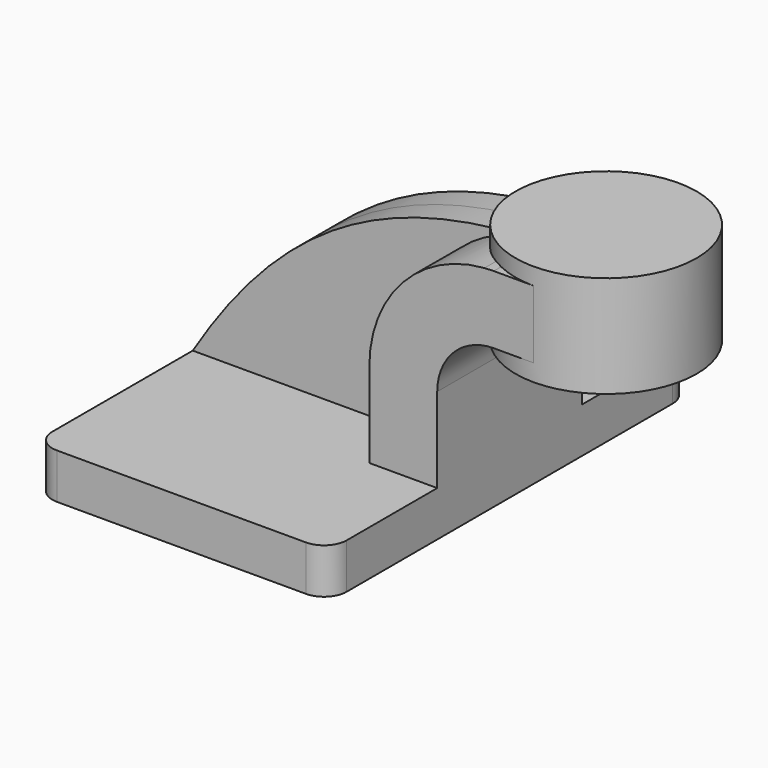
from build123d import *

# Parameters (mm, degrees)
F1_DEPTH = 63.5
F2_DEPTH = 25.4
F3_DEPTH = 7.9375
F0_W     = 25.4
F0_H     = 19.05
F0_H_2   = 4.7752
F0_H_3   = 4.7498
F5_R     = 6.35


with BuildPart() as f1:
    # F0 (on Front) → F1 (new body, symmetric)
    with BuildSketch(Plane.XZ):
        Polygon((41.275, -6.35), (41.275, 6.35), (22.225, 6.35), (-41.275, 6.35), (-41.275, -6.35), align=None)
    extrude(amount=F1_DEPTH, both=True)

    # F0 (on Front) → F2 (join, symmetric)
    with BuildSketch(Plane.XZ):
        with BuildLine():
            Line((22.225, 6.35), (41.275, 6.35))
            Line((41.275, 6.35), (41.275, 30.1752))
            ThreePointArc((41.275, 30.1752), (45.9246798487, 41.4005201513), (57.15, 46.0502))
            Line((57.15, 46.0502), (68.3291607261, 46.0502))
            Line((68.3291607261, 46.0502), (68.3291607261, 65.1002))
            Line((68.3291607261, 65.1002), (57.15, 65.1002))
            add(Edge.make_bspline(
                [(57.15, 65.1002), (56.2738590878, 65.0736826773), (55.4037055369, 65.041136828), (54.5394513338, 65.0024976365)],
                knots=[0, 0, 0, 0, 2.264919631, 2.264919631, 2.264919631, 2.264919631], degree=3))
            ThreePointArc((54.5394513338, 65.0024976365), (31.5479587028, 53.9300122791), (22.225, 30.1752))
            Line((22.225, 30.1752), (22.225, 6.35))
        make_face()
    extrude(amount=F2_DEPTH, both=True)

    # F0 (on Front) → F3 (join, symmetric)
    with BuildSketch(Plane.XZ):
        with BuildLine():
            Line((-41.275, 6.35), (22.225, 6.35))
            Line((22.225, 6.35), (22.225, 30.1752))
            ThreePointArc((22.225, 30.1752), (31.5479587028, 53.9300122791), (54.5394513338, 65.0024976365))
            add(Edge.make_bspline(
                [(54.5394513338, 65.0024976365), (11.6644928166, 63.085638308), (-16.6917426365, 46.172621582), (-41.275, 6.35)],
                knots=[2.264919631, 2.264919631, 2.264919631, 2.264919631, 114.6257677184, 114.6257677184, 114.6257677184, 114.6257677184], degree=3))
        make_face()
    extrude(amount=F3_DEPTH, both=True)

    # F0 (on Front) → F4 (revolve)
    with BuildSketch(Plane.XZ):
        with Locations((81.0291607261, 55.5752)):
            Rectangle(F0_W, F0_H)
        with Locations((81.0291607261, 43.6626)):
            Rectangle(F0_W, F0_H_2)
        with Locations((81.0291607261, 67.4751)):
            Rectangle(F0_W, F0_H_3)
    revolve(axis=Axis((68.3291607261, 0, 55.5625), (0, 0, -1)))

    # F5
    f5_edges = [f1.edges().sort_by_distance(p)[0] for p in [
        (41.275, -63.5, 0),
        (41.275, 63.5, 0),
        (-41.275, -63.5, 0),
        (-41.275, 63.5, 0),
    ]]
    fillet(f5_edges, radius=F5_R)


solid = f1.part
